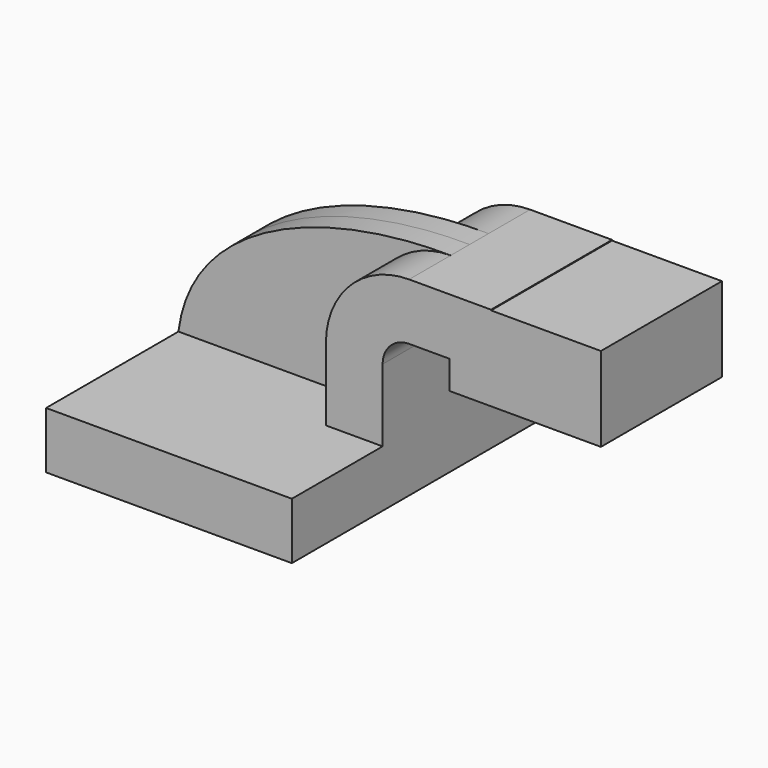
from build123d import *

# Parameters (mm, degrees)
F1_DEPTH = 63.5
F2_DEPTH = 25.4
F3_DEPTH = 7.9375
F4_DEPTH = 25.4


with BuildPart() as f1:
    # F0 (on Front) → F1 (new body, symmetric)
    with BuildSketch(Plane.XZ):
        Polygon((-41.275, 9.525), (-41.275, -9.525), (41.275, -9.525), (41.275, 9.525), (22.225, 9.525), align=None)
    extrude(amount=F1_DEPTH, both=True)

    # F0 (on Front) → F2 (join, symmetric)
    with BuildSketch(Plane.XZ):
        with BuildLine():
            Line((22.225, 9.525), (41.275, 9.525))
            Line((41.275, 9.525), (41.275, 33.834597))
            ThreePointArc((41.275, 33.834597), (43.881091, 40.126257), (50.172751, 42.732348))
            Line((50.172751, 42.732348), (63.788638, 42.732348))
            Line((63.788638, 42.732348), (63.788638, 61.565076))
            Line((63.788638, 61.565076), (77.687105, 61.565076))
            Line((77.687105, 61.565076), (77.685953, 61.782348))
            Line((77.685953, 61.782348), (50.172751, 61.782348))
            ThreePointArc((50.172751, 61.782348), (30.410707, 53.596641), (22.225, 33.834597))
            Line((22.225, 33.834597), (22.225, 9.525))
        make_face()
    extrude(amount=F2_DEPTH, both=True)

    # F0 (on Front) → F3 (join, symmetric)
    with BuildSketch(Plane.XZ):
        with BuildLine():
            add(Edge.make_bspline(
                [(-41.275, 9.525), (-36.848798, 45.56419), (7.302681, 62.255602), (50.172751, 61.782348)],
                knots=[0, 0, 0, 0, 105.325787, 105.325787, 105.325787, 105.325787], degree=3))
            Line((-41.275, 9.525), (22.225, 9.525))
            Line((22.225, 9.525), (22.225, 33.834597))
            ThreePointArc((22.225, 33.834597), (30.410707, 53.596641), (50.172751, 61.782348))
        make_face()
    extrude(amount=F3_DEPTH, both=True)

    # F0 (on Front) → F4 (join, symmetric)
    with BuildSketch(Plane.XZ):
        Polygon((114.588638, 61.565076), (77.687105, 61.565076), (77.837355, 33.214565), (114.588638, 33.214565), align=None)
        Polygon((77.837355, 33.214565), (77.687105, 61.565076), (63.788638, 61.565076), (63.788638, 42.732348), (63.788638, 33.214565), align=None)
    extrude(amount=F4_DEPTH, both=True)


solid = f1.part
